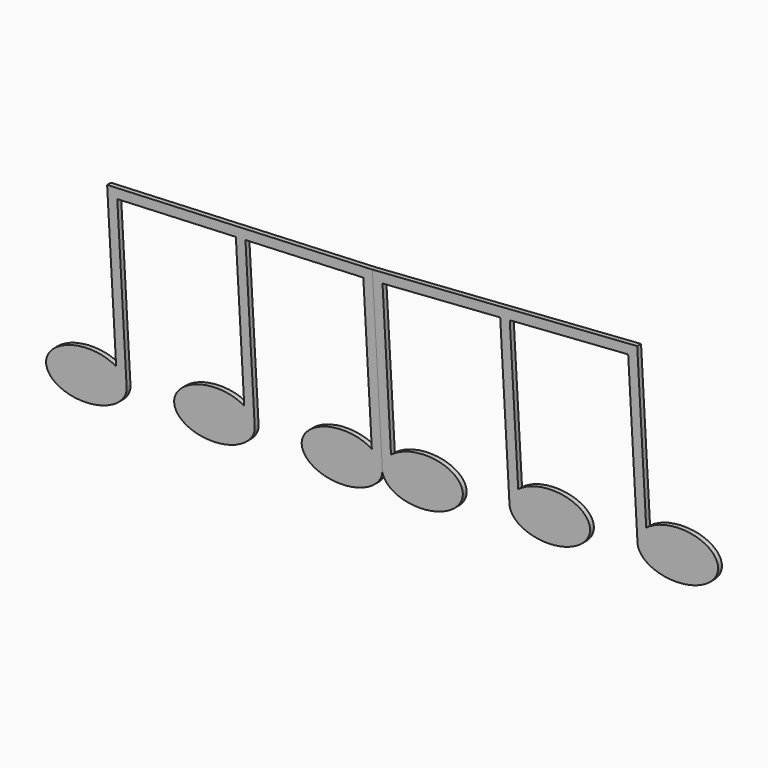
from build123d import *

# Parameters (mm, degrees)
F1_DEPTH = 3.175


with BuildPart() as f1:
    # F0 (on Front) → F1 (new body)
    with BuildSketch(Plane.XZ):
        with BuildLine():
            Line((-96.555725579, 61.8256037542), (-90.5761296778, -41.9551827246))
            add(Edge.make_bspline(
                [(-90.5761296778, -41.9551827246), (-114.6209287291, -27.1019522473), (-133.0773804705, -46.0188696388), (-151.533832212, -64.9357870303), (-116.9786915896, -69.01645591), (-82.4235509672, -73.0971247898), (-83.6451140505, -51.856400831)],
                knots=[3.8462036373, 3.8462036373, 3.8462036373, 5.7057284118, 5.7057284118, 7.5652531863, 7.5652531863, 9.4247779608, 9.4247779608, 9.4247779608], degree=2, weights=[1, 0.5980244405, 1, 0.5980244405, 1, 0.5980244405, 1]))
            Line((-83.6451140505, -51.856400831), (-89.8460255825, 55.7654997654))
            Line((-89.8460255825, 55.7654997654), (-11.4603599583, 59.22438024))
            Line((-11.4603599583, 59.22438024), (-5.9058520389, -37.3582449723))
            add(Edge.make_bspline(
                [(-5.9058520389, -37.3582449723), (-29.9495046511, -22.5037122494), (-48.4076596159, -41.4206292452), (-66.8658145807, -60.3375462411), (-32.3101006491, -64.418749137), (2.2456132825, -68.4999520329), (1.0240231982, -47.258758576)],
                knots=[3.846140072, 3.846140072, 3.846140072, 5.705686035, 5.705686035, 7.5652319979, 7.5652319979, 9.4247779608, 9.4247779608, 9.4247779608], degree=2, weights=[1, 0.5980159495, 1, 0.5980159495, 1, 0.5980159495, 1]))
            Line((1.0240231982, -47.258758576), (-5.1162487287, 59.4977896526))
            Line((-5.1162487287, 59.4977896526), (72.8078772793, 62.9428376657))
            Line((72.8078772793, 62.9428376657), (78.4369868866, -34.9369729978))
            add(Edge.make_bspline(
                [(78.4369868866, -34.9369729978), (54.4852203925, -19.8200591073), (35.9697824181, -38.3268625117), (17.4543444437, -56.8336659161), (51.7908879133, -61.5706457133), (86.1274313829, -66.3076255105), (85.3844890514, -45.1439862916)],
                knots=[0.7180525696, 0.7180525696, 0.7180525696, 2.5730968154, 2.5730968154, 4.4281410613, 4.4281410613, 6.2831853072, 6.2831853072, 6.2831853072], degree=2, weights=[1, 0.5998184606, 1, 0.5998184606, 1, 0.5998184606, 1]))
            Line((85.3844890514, -45.1439862916), (85.3602240934, -44.7220635246))
            Line((85.3602240934, -44.7220635246), (78.7876481432, 69.5628828459))
            Line((78.7876481432, 69.5628828459), (-96.555725579, 61.8256037542))
        make_face()
        with BuildLine():
            add(Edge.make_bspline(
                [(85.3844890514, -45.1439862916), (85.3770761933, -44.9328217795), (85.3602240934, -44.7220635246)],
                knots=[0, 0, 0, 0.0266182185, 0.0266182185, 0.0266182185], degree=2, weights=[1, 0.9999114351, 1]))
            Line((85.3602240934, -44.7220635246), (85.3844890514, -45.1439862916))
        make_face()
    extrude(amount=F1_DEPTH)


with BuildPart() as f2_1:
    # F2: instance of F1
    add(f1.part.mirror(Plane(origin=(82.0739361183, -1.5875, 12.4204096606), x_dir=(0, 1, 0), z_dir=(0.9983503664, 0, 0.0574155549))))


solid = Compound([f1.part, f2_1.part])
